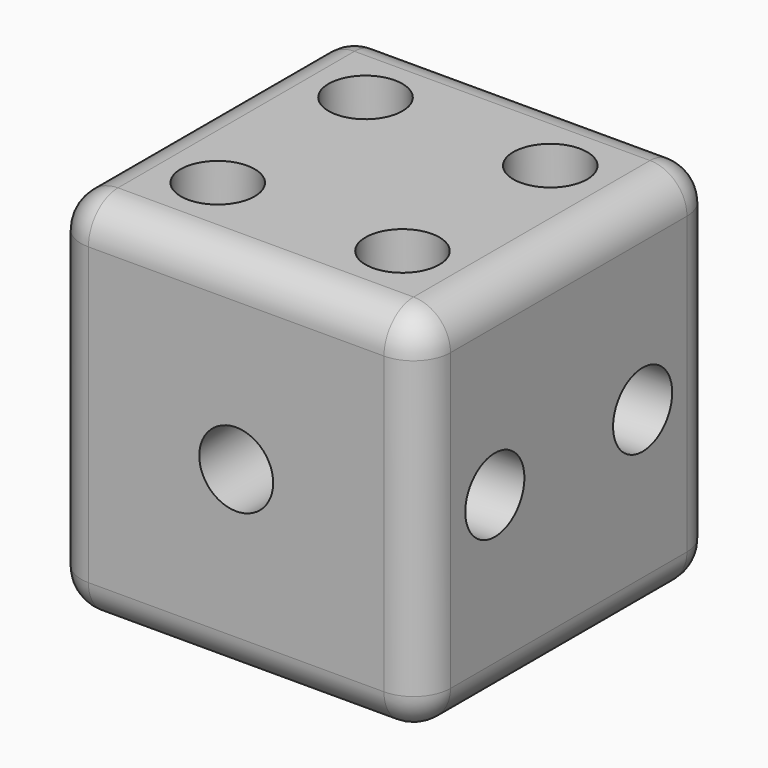
from build123d import *

# Parameters (mm, degrees)
F0_W      = 50
F0_H      = 50
F1_DEPTH  = 50
F2_R      = 5
F3_DEPTH  = 10
F6_R      = 5
F7_DEPTH  = 10
F5_R      = 5
F8_DEPTH  = 5
F9_R      = 5
F10_DEPTH = 10
F11_R     = 5
F12_DEPTH = 10
F13_R     = 5
F14_DEPTH = 10
F15_R     = 5


with BuildPart() as f1:
    # F0 (on Front) → F1 (new body)
    with BuildSketch(Plane.XZ):
        Rectangle(F0_W, F0_H)
    extrude(amount=F1_DEPTH)

    # F2 (on face) → F3 (cut)
    with BuildSketch(Plane.XZ.offset(50)):
        Circle(F2_R)
    extrude(amount=-F3_DEPTH, mode=Mode.SUBTRACT)

    # F6 (on face) → F7 (cut)
    with BuildSketch(Plane.YZ.offset(25)):
        with Locations((-12.5, 0)):
            Circle(F6_R)
        with Locations((-37.5, 0)):
            Circle(F6_R)
    extrude(amount=-F7_DEPTH, mode=Mode.SUBTRACT)

    # F5 (on face) → F8 (cut)
    with BuildSketch(Plane(origin=(0, 0, 0), x_dir=(-1, 0, 0), z_dir=(0, 1, 0))):
        with Locations((12.5, -12.5)):
            Circle(F5_R)
        with Locations((12.5, 0)):
            Circle(F5_R)
        with Locations((12.5, 12.5)):
            Circle(F5_R)
        with Locations((-12.5, -12.5)):
            Circle(F5_R)
        with Locations((-12.5, 0)):
            Circle(F5_R)
        with Locations((-12.5, 12.5)):
            Circle(F5_R)
    extrude(amount=-F8_DEPTH, mode=Mode.SUBTRACT)

    # F9 (on face) → F10 (cut)
    with BuildSketch(Plane(origin=(-25, 0, 0), x_dir=(0, -1, 0), z_dir=(-1, 0, 0))):
        with Locations((12.5, 0)):
            Circle(F9_R)
        with Locations((37.5, -12.5)):
            Circle(F9_R)
        with Locations((37.5, 12.5)):
            Circle(F9_R)
    extrude(amount=-F10_DEPTH, mode=Mode.SUBTRACT)

    # F11 (on face) → F12 (cut)
    with BuildSketch(Plane.XY.offset(25)):
        with Locations((-12.5, -37.5)):
            Circle(F11_R)
        with Locations((-12.5, -12.5)):
            Circle(F11_R)
        with Locations((12.5, -12.5)):
            Circle(F11_R)
        with Locations((12.5, -37.5)):
            Circle(F11_R)
    extrude(amount=-F12_DEPTH, mode=Mode.SUBTRACT)

    # F13 (on face) → F14 (cut)
    with BuildSketch(Plane(origin=(0, 0, -25), x_dir=(1, 0, 0), z_dir=(0, 0, -1))):
        with Locations((-12.5, 37.5)):
            Circle(F13_R)
        with Locations((12.5, 37.5)):
            Circle(F13_R)
        with Locations((0, 25)):
            Circle(F13_R)
        with Locations((-12.5, 12.5)):
            Circle(F13_R)
        with Locations((12.5, 12.5)):
            Circle(F13_R)
    extrude(amount=-F14_DEPTH, mode=Mode.SUBTRACT)

    # F15
    f15_edges = [f1.edges().sort_by_distance(p)[0] for p in [
        (0, -50, -25),
        (25, -25, -25),
        (25, -50, 0),
        (25, 0, 0),
        (0, 0, -25),
        (-25, -25, -25),
        (-25, -50, 0),
        (-25, 0, 0),
        (0, 0, 25),
        (-25, -25, 25),
        (0, -50, 25),
        (25, -25, 25),
    ]]
    fillet(f15_edges, radius=F15_R)


solid = f1.part
